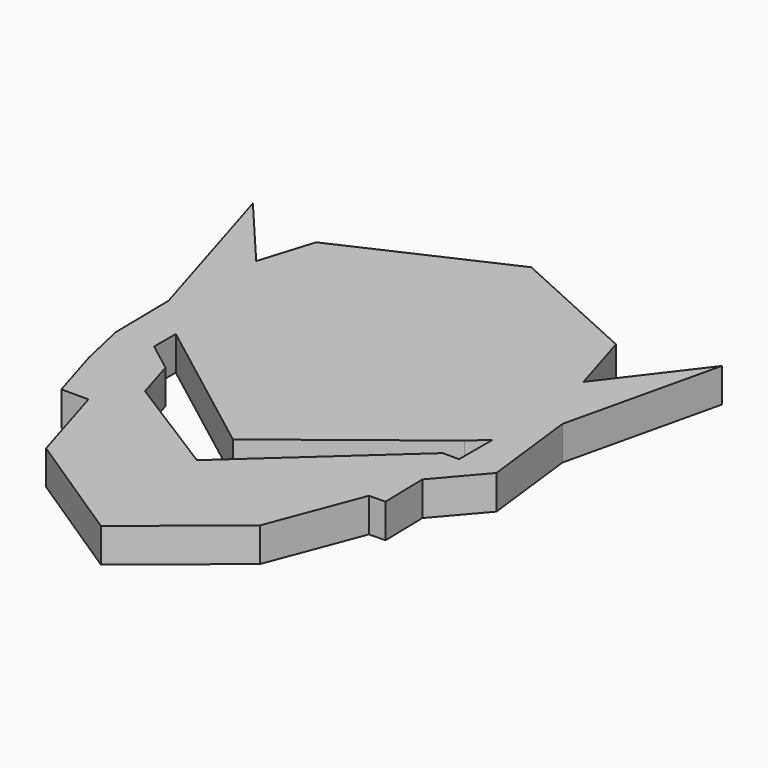
from build123d import *

# Parameters (mm, degrees)
F1_DEPTH = 7


with BuildPart() as f1:
    # F0 (on Top) → F1 (new body)
    with BuildSketch(Plane.XY):
        Polygon((-48.7562939525, 48.7562939525), (-38.1858237088, 13.873741962), (-27.4275951748, 28.0008919963), (-21.4912726922, 23.4802127536), (0, 47.1707247198), (19.9517626315, 25.7655214518), (22.7108810395, 29.3886532332), (37.9215627909, 19.9517626315), (45.3208908439, 51.6631715), (31.4351335853, 33.4291122854), (27.3510888219, 46.9064600766), (0, 59.3267604709), (-32.3720648885, 44.5281043649), (-35.8074679971, 33.4291122854), align=None)
        Polygon((-27.4275951748, 28.0008919963), (-38.1858237088, 13.873741962), (-37.9640519174, 0), (-32.3720648885, 7.343108533), (-30.055811015, 5.5792150051), (0, -17.3091441393), (29.2638465335, 5.5792150051), (32.6363295317, 8.5885068402), (40.2999185026, 0), (37.9215627909, 19.9517626315), (22.7108810395, 29.3886532332), (19.9517626315, 25.7655214518), (0, 47.1707247198), (-21.4912726922, 23.4802127536), align=None)
        Polygon((-32.3720648885, 7.343108533), (-37.9640519174, 0), (-30.055811015, 0), (-30.055811015, 5.5792150051), align=None)
        Polygon((-30.055811015, 0), (-37.9640519174, 0), (-35.8074679971, -9.5858515484), align=None)
        Polygon((-24.0600761798, -4.5659234474), (-30.055811015, 0), (-35.8074679971, -9.5858515484), (-32.3720648885, -20.9226818673), (-26.8026068334, -20.9226818673), (-21.4912726922, -38.4500846267), (2.2462261841, -54.041530937), (22.0658555627, -37.9215627909), (29.2638465335, -18.9703885511), (32.6363295317, -18.8947152346), (32.4182361364, -9.1750901192), (29.2638465335, 0), (0, -26.5583060682), (-21.4912726922, -13.0429750016), align=None)
        Polygon((40.2999185026, 0), (32.6363295317, 8.5885068402), (32.6363295317, 0), (29.2638465335, 0), (32.4182361364, -9.1750901192), align=None)
    extrude(amount=F1_DEPTH)


solid = f1.part
